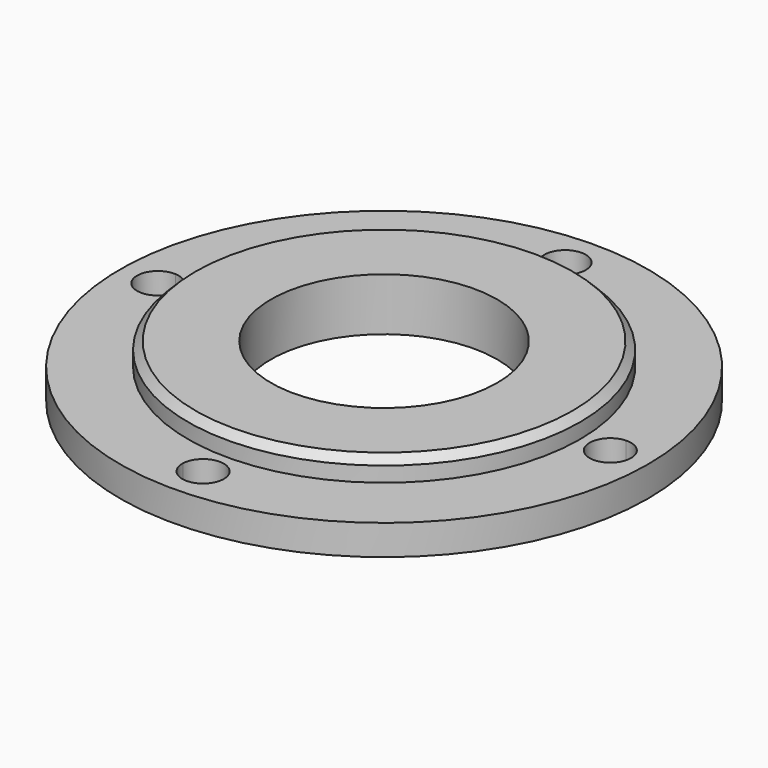
from build123d import *

# Parameters (mm, degrees)
F2_SIZE  = 1
F4_DEPTH = 4


with BuildPart() as f1:
    # F0 (on Front) → F1 (revolve)
    with BuildSketch(Plane.XZ):
        Polygon((15, 7), (15, 0), (35, 0), (35, 4), (26, 4), (26, 7), align=None)
    revolve(axis=Axis((0, 0, 26.826651), (0, 0, 1)))

    # F2
    f2_edges = [f1.edges().sort_by_distance(p)[0] for p in [
        (-26, 0, 7),
    ]]
    chamfer(f2_edges, length=F2_SIZE)

    # F3 (on face) → F4 (cut)
    with BuildSketch(Plane.XY.offset(4)):
        with BuildLine():
            ThreePointArc((2.75, 30), (-0.063037, 32.749277), (-2.74711, 29.873958))
            ThreePointArc((-2.74711, 29.873958), (0, 27.25), (2.74711, 29.873958))
            ThreePointArc((2.74711, 29.873958), (2.749277, 29.936963), (2.75, 30))
        make_face()
        with BuildLine():
            ThreePointArc((-27.25, 0), (-28.011393, 1.899459), (-29.873958, 2.74711))
            ThreePointArc((-29.873958, 2.74711), (-32.75, 0), (-29.873958, -2.74711))
            ThreePointArc((-29.873958, -2.74711), (-28.011393, -1.899459), (-27.25, 0))
        make_face()
        with BuildLine():
            ThreePointArc((2.74711, -29.873958), (0, -27.25), (-2.74711, -29.873958))
            ThreePointArc((-2.74711, -29.873958), (-0.063037, -32.749277), (2.75, -30))
            ThreePointArc((2.75, -30), (2.749277, -29.936963), (2.74711, -29.873958))
        make_face()
        with BuildLine():
            ThreePointArc((32.75, 0), (31.899459, 1.988607), (29.873958, 2.74711))
            ThreePointArc((29.873958, 2.74711), (27.25, 0), (29.873958, -2.74711))
            ThreePointArc((29.873958, -2.74711), (31.899459, -1.988607), (32.75, 0))
        make_face()
    extrude(amount=-F4_DEPTH, mode=Mode.SUBTRACT)


solid = f1.part
